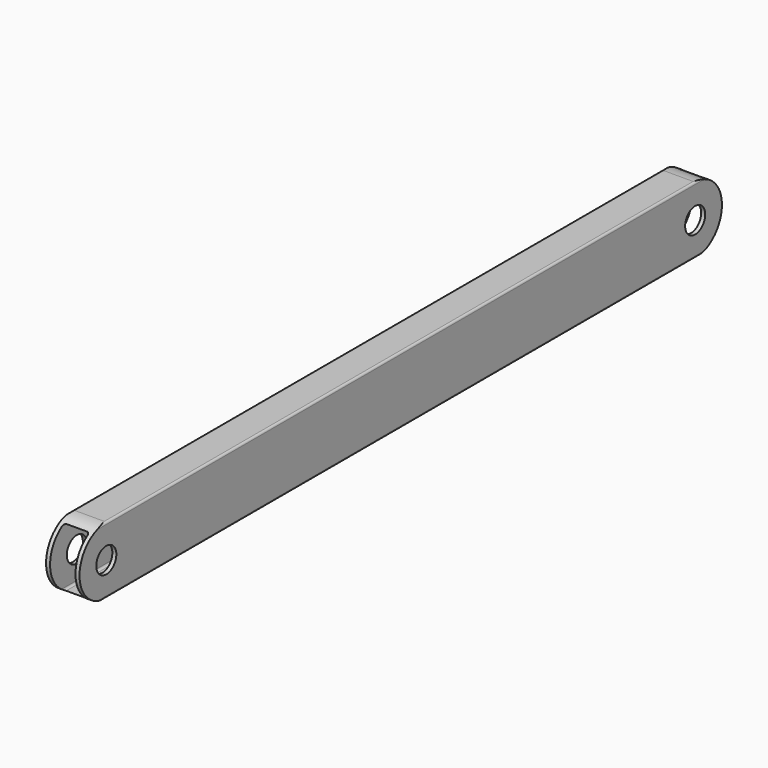
from build123d import *

# Parameters (mm, degrees)
F1_DEPTH = 304.8
F2_R     = 9.525
F3_DEPTH = 25.4
F5_DEPTH = 25.4


with BuildPart() as f1:
    # F0 (on Front) → F1 (new body, symmetric)
    with BuildSketch(Plane.XZ):
        with BuildLine():
            ThreePointArc((12.7, 23.876), (12.253631, 24.953631), (11.176, 25.4))
            Line((11.176, 25.4), (-11.176, 25.4))
            ThreePointArc((-11.176, 25.4), (-12.253631, 24.953631), (-12.7, 23.876))
            Line((-12.7, 23.876), (-12.7, -23.876))
            ThreePointArc((-12.7, -23.876), (-12.253631, -24.953631), (-11.176, -25.4))
            Line((-11.176, -25.4), (11.176, -25.4))
            ThreePointArc((11.176, -25.4), (12.253631, -24.953631), (12.7, -23.876))
            Line((12.7, -23.876), (12.7, 23.876))
        make_face()
        with BuildLine():
            Line((-8.128, 22.352), (8.128, 22.352))
            ThreePointArc((8.128, 22.352), (9.205631, 21.905631), (9.652, 20.828))
            Line((9.652, 20.828), (9.652, -20.828))
            ThreePointArc((9.652, -20.828), (9.205631, -21.905631), (8.128, -22.352))
            Line((8.128, -22.352), (-8.128, -22.352))
            ThreePointArc((-8.128, -22.352), (-9.205631, -21.905631), (-9.652, -20.828))
            Line((-9.652, -20.828), (-9.652, 20.828))
            ThreePointArc((-9.652, 20.828), (-9.205631, 21.905631), (-8.128, 22.352))
        make_face(mode=Mode.SUBTRACT)
    extrude(amount=F1_DEPTH, both=True)

    # F2 (on face) → F3 (cut)
    with BuildSketch(Plane.YZ.offset(12.7)):
        with Locations((-279.4, 0)):
            Circle(F2_R)
        with Locations((279.4, 0)):
            Circle(F2_R)
    extrude(amount=-F3_DEPTH, mode=Mode.SUBTRACT)

    # F4 (on face) → F5 (cut)
    with BuildSketch(Plane.YZ.offset(12.7)):
        with BuildLine():
            ThreePointArc((-279.4, -25.4), (-304.8, 0), (-279.4, 25.4))
            Line((-279.4, 25.4), (-279.4, 43.210469))
            Line((-279.4, 43.210469), (-315.057784, 43.210469))
            Line((-315.057784, 43.210469), (-315.057784, -40.735509))
            Line((-315.057784, -40.735509), (-279.4, -40.735509))
            Line((-279.4, -40.735509), (-279.4, -25.4))
        make_face()
        with BuildLine():
            Line((315.057784, -40.735509), (315.057784, 43.210469))
            Line((315.057784, 43.210469), (279.4, 43.210469))
            Line((279.4, 43.210469), (279.4, 25.4))
            ThreePointArc((279.4, 25.4), (304.8, 0), (279.4, -25.4))
            Line((279.4, -25.4), (279.4, -40.735509))
            Line((279.4, -40.735509), (315.057784, -40.735509))
        make_face()
    extrude(amount=-F5_DEPTH, mode=Mode.SUBTRACT)


solid = f1.part
